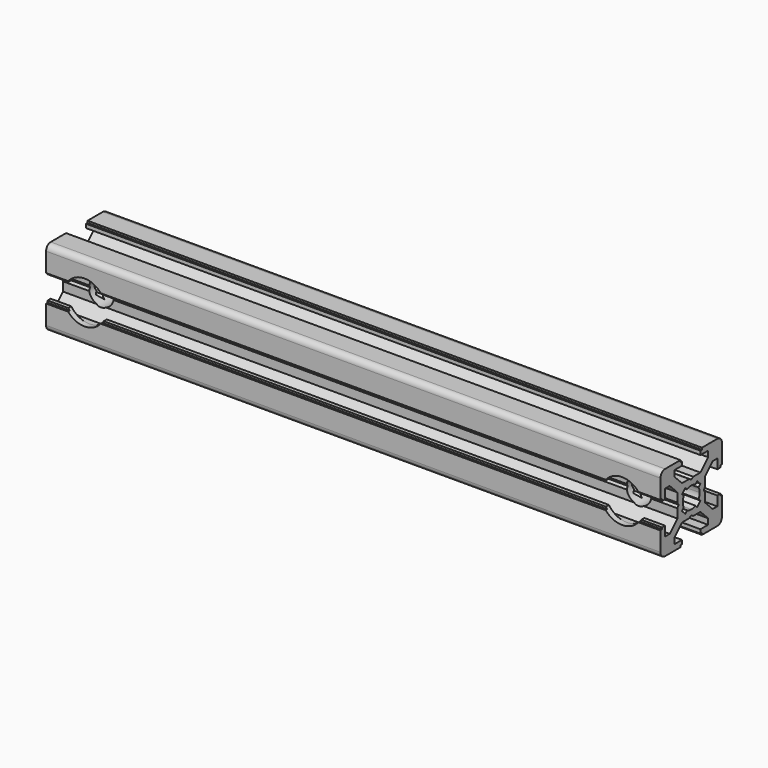
from build123d import *

# Parameters (mm, degrees)
PAD_DEPTH       = 160
SKETCH001_R     = 3.25
POCKET_DEPTH    = 21
SKETCH002_R     = 5.5
POCKET001_DEPTH = 2


with BuildPart() as part:
    # Sketch → Pad (new body)
    with BuildSketch(Plane.YZ):
        with BuildLine():
            Line((0, 4.1), (0.65, 4.5))
            Line((0.65, 4.5), (3, 4.5))
            Line((3, 4.5), (5.5, 7))
            Line((5.5, 7), (5.5, 8.5))
            Line((5.5, 8.5), (3, 8.5))
            Line((3, 8.5), (3, 9.5))
            Line((3, 9.5), (3.5, 9.5))
            Line((3.5, 9.5), (3.5, 10))
            Line((3.5, 10), (8.5, 10))
            ThreePointArc((10, 8.5), (9.56066, 9.56066), (8.5, 10))
            Line((10, 8.5), (10, 3.5))
            Line((10, 3.5), (9.5, 3.5))
            Line((9.5, 3.5), (9.5, 3))
            Line((9.5, 3), (8.5, 3))
            Line((8.5, 3), (8.5, 5.5))
            Line((8.5, 5.5), (7, 5.5))
            Line((7, 5.5), (4.5, 3))
            Line((4.5, 3), (4.5, 0.65))
            Line((4.5, 0.65), (4.1, 0))
            Line((4.5, -0.65), (4.1, 0))
            Line((4.5, -3), (4.5, -0.65))
            Line((7, -5.5), (4.5, -3))
            Line((8.5, -5.5), (7, -5.5))
            Line((8.5, -3), (8.5, -5.5))
            Line((9.5, -3), (8.5, -3))
            Line((9.5, -3.5), (9.5, -3))
            Line((10, -3.5), (9.5, -3.5))
            Line((10, -8.5), (10, -3.5))
            ThreePointArc((8.5, -10), (9.56066, -9.56066), (10, -8.5))
            Line((3.5, -10), (8.5, -10))
            Line((3.5, -9.5), (3.5, -10))
            Line((3, -9.5), (3.5, -9.5))
            Line((3, -8.5), (3, -9.5))
            Line((5.5, -8.5), (3, -8.5))
            Line((5.5, -7), (5.5, -8.5))
            Line((3, -4.5), (5.5, -7))
            Line((0.65, -4.5), (3, -4.5))
            Line((0, -4.1), (0.65, -4.5))
            Line((0, -4.1), (-0.65, -4.5))
            Line((-0.65, -4.5), (-3, -4.5))
            Line((-3, -4.5), (-5.5, -7))
            Line((-5.5, -7), (-5.5, -8.5))
            Line((-5.5, -8.5), (-3, -8.5))
            Line((-3, -8.5), (-3, -9.5))
            Line((-3, -9.5), (-3.5, -9.5))
            Line((-3.5, -9.5), (-3.5, -10))
            Line((-3.5, -10), (-8.5, -10))
            ThreePointArc((-10, -8.5), (-9.56066, -9.56066), (-8.5, -10))
            Line((-10, -8.5), (-10, -3.5))
            Line((-10, -3.5), (-9.5, -3.5))
            Line((-9.5, -3.5), (-9.5, -3))
            Line((-9.5, -3), (-8.5, -3))
            Line((-8.5, -3), (-8.5, -5.5))
            Line((-8.5, -5.5), (-7, -5.5))
            Line((-7, -5.5), (-4.5, -3))
            Line((-4.5, -3), (-4.5, -0.65))
            Line((-4.5, -0.65), (-4.1, 0))
            Line((-4.5, 0.65), (-4.1, 0))
            Line((-4.5, 3), (-4.5, 0.65))
            Line((-7, 5.5), (-4.5, 3))
            Line((-8.5, 5.5), (-7, 5.5))
            Line((-8.5, 3), (-8.5, 5.5))
            Line((-9.5, 3), (-8.5, 3))
            Line((-9.5, 3.5), (-9.5, 3))
            Line((-10, 3.5), (-9.5, 3.5))
            Line((-10, 8.5), (-10, 3.5))
            ThreePointArc((-8.5, 10), (-9.56066, 9.56066), (-10, 8.5))
            Line((-3.5, 10), (-8.5, 10))
            Line((-3.5, 9.5), (-3.5, 10))
            Line((-3, 9.5), (-3.5, 9.5))
            Line((-3, 8.5), (-3, 9.5))
            Line((-5.5, 8.5), (-3, 8.5))
            Line((-5.5, 7), (-5.5, 8.5))
            Line((-3, 4.5), (-5.5, 7))
            Line((-0.65, 4.5), (-3, 4.5))
            Line((0, 4.1), (-0.65, 4.5))
        make_face()
        with BuildLine():
            Line((1.340499, 2.401159), (1.923239, 2.983899))
            Line((1.923239, 2.983899), (2.983899, 1.923239))
            Line((2.983899, 1.923239), (2.401159, 1.340499))
            ThreePointArc((2.75, 0), (2.661361, 0.692573), (2.401159, 1.340499))
            ThreePointArc((2.401164, -1.34049), (2.661362, -0.692568), (2.75, 0))
            Line((2.983904, -1.92323), (2.401164, -1.34049))
            Line((1.923247, -2.983894), (2.983904, -1.92323))
            Line((1.340507, -2.401154), (1.923247, -2.983894))
            ThreePointArc((0, -2.75), (0.692577, -2.66136), (1.340507, -2.401154))
            ThreePointArc((-1.340507, -2.401154), (-0.692577, -2.66136), (0, -2.75))
            Line((-1.340507, -2.401154), (-1.923247, -2.983894))
            Line((-1.923247, -2.983894), (-2.983904, -1.92323))
            Line((-2.983904, -1.92323), (-2.401164, -1.34049))
            ThreePointArc((-2.75, 0), (-2.661362, -0.692568), (-2.401164, -1.34049))
            ThreePointArc((-2.401159, 1.340499), (-2.661361, 0.692572), (-2.75, 0))
            Line((-2.983899, 1.923239), (-2.401159, 1.340499))
            Line((-1.923239, 2.983899), (-2.983899, 1.923239))
            Line((-1.340499, 2.401159), (-1.923239, 2.983899))
            ThreePointArc((0, 2.75), (-0.692573, 2.661361), (-1.340499, 2.401159))
            ThreePointArc((1.340499, 2.401159), (0.692573, 2.661361), (0, 2.75))
        make_face(mode=Mode.SUBTRACT)
    extrude(amount=PAD_DEPTH)

    # Sketch001 → Pocket (cut)
    with BuildSketch(Plane.XZ.offset(10)):
        with Locations((10, 0)):
            Circle(SKETCH001_R)
        with Locations((150, 0)):
            Circle(SKETCH001_R)
    extrude(amount=-POCKET_DEPTH, mode=Mode.SUBTRACT)

    # Sketch002 → Pocket001 (cut)
    with BuildSketch(Plane.XZ.offset(10)):
        with Locations((10, 0)):
            Circle(SKETCH002_R)
        with Locations((150, 0)):
            Circle(SKETCH002_R)
    extrude(amount=-POCKET001_DEPTH, mode=Mode.SUBTRACT)


solid = part.part
